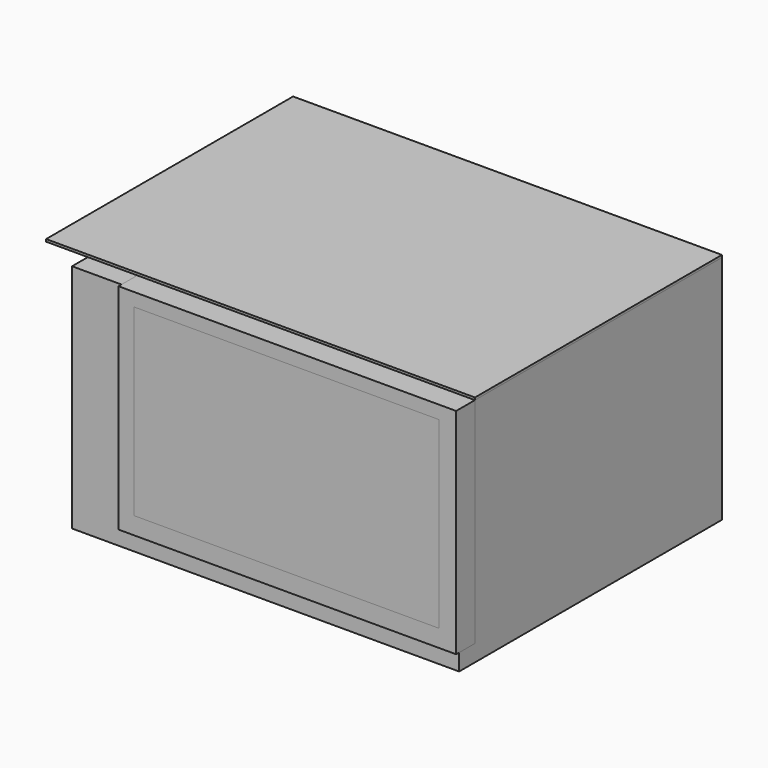
from build123d import *

# Parameters (mm, degrees)
F0_W          = 41.904162
F0_H          = 24.995466
F1_DEPTH      = 17.78
F1_DEPTH_BACK = 17.78
F2_W          = 36.547231
F2_H          = 2.137129
F3_DEPTH      = 23.1902
F4_W          = 36.547231
F4_H          = 23.1902
F5_DEPTH      = 2.54
F6_W          = 33.0145
F6_H          = 19.887494
F7_DEPTH      = 32.766
F8_W          = 33.0145
F8_H          = 19.887494
F9_DEPTH      = 0.254
F10_W         = 34.06269
F10_H         = 28.0248
F11_DEPTH     = 23.1902
F12_W         = 46.423603
F12_H         = 33.422871
F13_DEPTH     = 0.254


with BuildPart() as f1:
    # F0 (on Front) → F1 (new body, two sides)
    with BuildSketch(Plane.XZ) as f1_sk:
        Rectangle(F0_W, F0_H)
    extrude(amount=F1_DEPTH)
    extrude(f1_sk.sketch, amount=-F1_DEPTH_BACK)

    # F2 (on face) → F3 (cut)
    with BuildSketch(Plane.XY.offset(12.497733)):
        with Locations((2.678466, -16.711436)):
            Rectangle(F2_W, F2_H)
    extrude(amount=-F3_DEPTH, mode=Mode.SUBTRACT)


with BuildPart() as f5:
    # F4 (on face) → F5 (new body)
    with BuildSketch(Plane.XZ.offset(15.642871)):
        with Locations((2.678466, 0.902633)):
            Rectangle(F4_W, F4_H)
    extrude(amount=F5_DEPTH)


with BuildPart() as f7_tool:
    # F6 (on face) → F7 (new body)
    with BuildSketch(Plane.XZ.offset(18.182871)):
        with Locations((2.60063, 1.126369)):
            Rectangle(F6_W, F6_H)
    extrude(amount=-F7_DEPTH)


with BuildPart() as f1_1:
    add(f1.part)

    # F7: cut by f7_tool
    add(f7_tool.part, mode=Mode.SUBTRACT)

    # F10 (on face) → F11 (cut)
    with BuildSketch(Plane.XY.offset(12.497733)):
        with Locations((1.643826, 0.791443)):
            Rectangle(F10_W, F10_H)
    extrude(amount=-F11_DEPTH, mode=Mode.SUBTRACT)


with BuildPart() as f5_1:
    add(f5.part)

    # F7: cut by f7_tool
    add(f7_tool.part, mode=Mode.SUBTRACT)


with BuildPart() as f9:
    # F8 (on face) → F9 (new body)
    with BuildSketch(Plane.XZ.offset(18.182871)):
        with Locations((2.60063, 1.126369)):
            Rectangle(F8_W, F8_H)
    extrude(amount=-F9_DEPTH)


with BuildPart() as f13:
    # F12 (on face) → F13 (new body)
    with BuildSketch(Plane.XY.offset(12.497733)):
        with Locations((-2.259721, 1.068564)):
            Rectangle(F12_W, F12_H)
    extrude(amount=F13_DEPTH)


solid = Compound([f1_1.part, f5_1.part, f9.part, f13.part])
